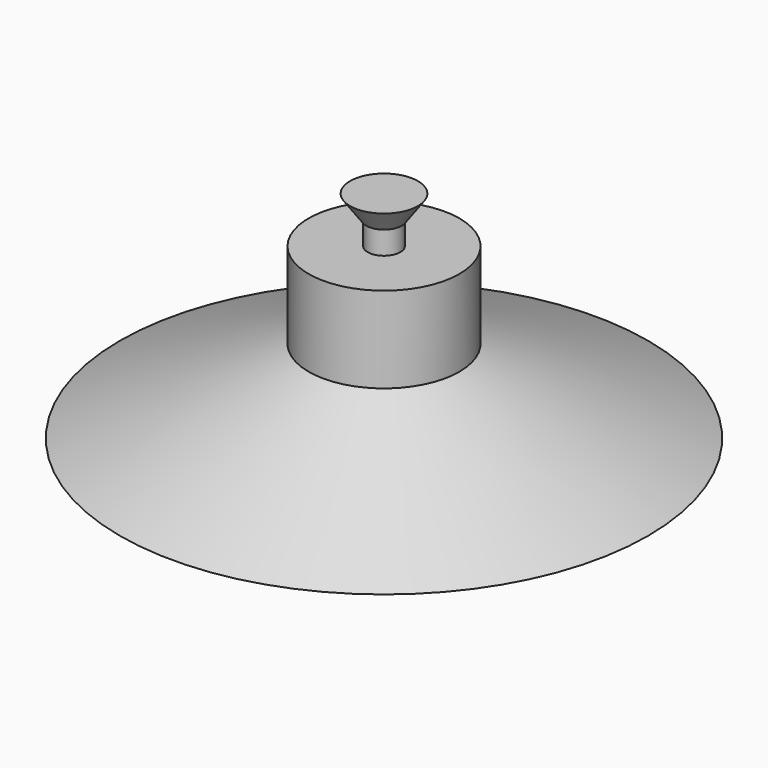
from build123d import *

# Parameters (mm, degrees)
F0_R     = 12.7
F1_DEPTH = 14.5
F4_R     = 2.75
F5_DEPTH = 4


with BuildPart() as f1:
    # F0 (on Top) → F1 (new body)
    with BuildSketch(Plane.XY):
        Circle(F0_R)
    extrude(amount=F1_DEPTH)

    # F2 (on Front) → F3 (revolve)
    with BuildSketch(Plane.XZ):
        Polygon((0, 0), (-12.7, 0), (-44.5, -14), (0, -14), align=None)
    revolve(axis=Axis((0, 0, -7), (0, 0, -1)))

    # F4 (on face) → F5 (join)
    with BuildSketch(Plane.XY.offset(14.5)):
        Circle(F4_R)
    extrude(amount=F5_DEPTH)


with BuildPart() as f7:
    # F6 (on Right) → F7 (revolve)
    with BuildSketch(Plane.YZ):
        Polygon((0, 22.3), (0, 18.5), (3, 18.5), (5.71, 22.3), align=None)
    revolve(axis=Axis((0, 0, 20.4), (0, 0, -1)))


solid = Compound([f1.part, f7.part])
